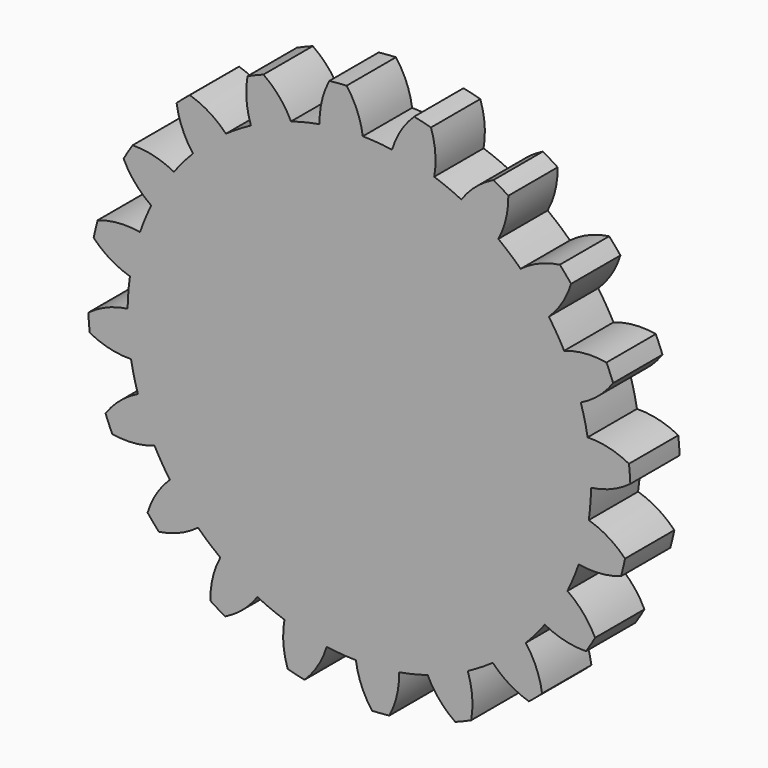
from build123d import *

# Parameters (mm, degrees)
F2_DEPTH = 5
F3_DEPTH = 5
F5_COUNT = 20
F5_ANGLE = 342


with BuildPart() as f2:
    # F1 (on Front) → F2 (new body)
    with BuildSketch(Plane.XZ):
        with BuildLine():
            ThreePointArc((18.791765015, -0.2801004202), (18.7933305583, -0.140054099), (18.7938524157, 0))
            ThreePointArc((18.7938524157, 0), (18.7238802654, 1.6202457939), (18.5144848465, 3.2284267827))
            ThreePointArc((18.5144848465, 3.2284267827), (-18.7354346217, -1.4806681458), (18.791765015, -0.2801004202))
        make_face()
    extrude(amount=F2_DEPTH)

    # F1 (on Front) → F3 (join)
    with BuildSketch(Plane.XZ):
        with BuildLine():
            ThreePointArc((18.5144848465, 3.2284267827), (18.7238802654, 1.6202457939), (18.7938524157, 0))
            ThreePointArc((18.7938524157, 0), (18.7933305583, -0.140054099), (18.791765015, -0.2801004202))
            ThreePointArc((18.791765015, -0.2801004202), (20.4674995965, 0.1731452079), (21.9757526216, 1.0326164403))
            ThreePointArc((21.9757526216, 1.0326164403), (21.9316163904, 1.7332635421), (21.8651473224, 2.4321456718))
            ThreePointArc((21.8651473224, 2.4321456718), (20.2406124153, 3.0440315456), (18.5144848465, 3.2284267827))
        make_face()
    extrude(amount=F3_DEPTH)

    # F5: F2 ×20 about axis
    f5_axis = Axis((0, 6.1465417966, 0), (0, 1, 0))


with BuildPart() as f2_1:
    add(f2.part)
    for i in range(1, F5_COUNT):
        add(f2.part.rotate(f5_axis, i * F5_ANGLE / (F5_COUNT - 1)))


solid = f2_1.part
